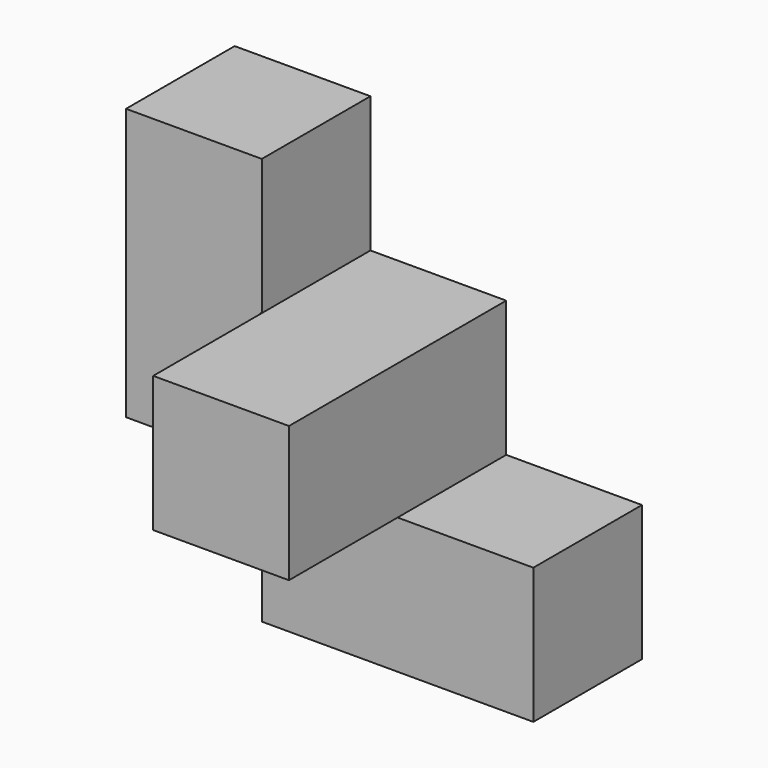
from build123d import *

# Parameters (mm, degrees)
F0_W     = 18.899216
F0_H     = 19.05
F0_W_2   = 19.05
F1_DEPTH = 19.05
F2_DEPTH = 38.1


with BuildPart() as f1:
    # F0 (on Front) → F1 (new body)
    with BuildSketch(Plane.XZ):
        with Locations((-19.125392, 0)):
            Rectangle(F0_W, F0_H)
        with Locations((19.05, -19.05)):
            Rectangle(F0_W_2, F0_H)
        with Locations((0, -19.05)):
            Rectangle(F0_W_2, F0_H)
        Polygon((-9.675784, 9.525), (-9.525, 9.525), (-9.525, 28.575), (-28.575, 28.575), (-28.575, 9.525), align=None)
    extrude(amount=F1_DEPTH)


with BuildPart() as f2:
    # F0 (on Front) → F2 (new body)
    with BuildSketch(Plane.XZ):
        Rectangle(F0_W_2, F0_H)
    extrude(amount=F2_DEPTH)


solid = Compound([f1.part, f2.part])
